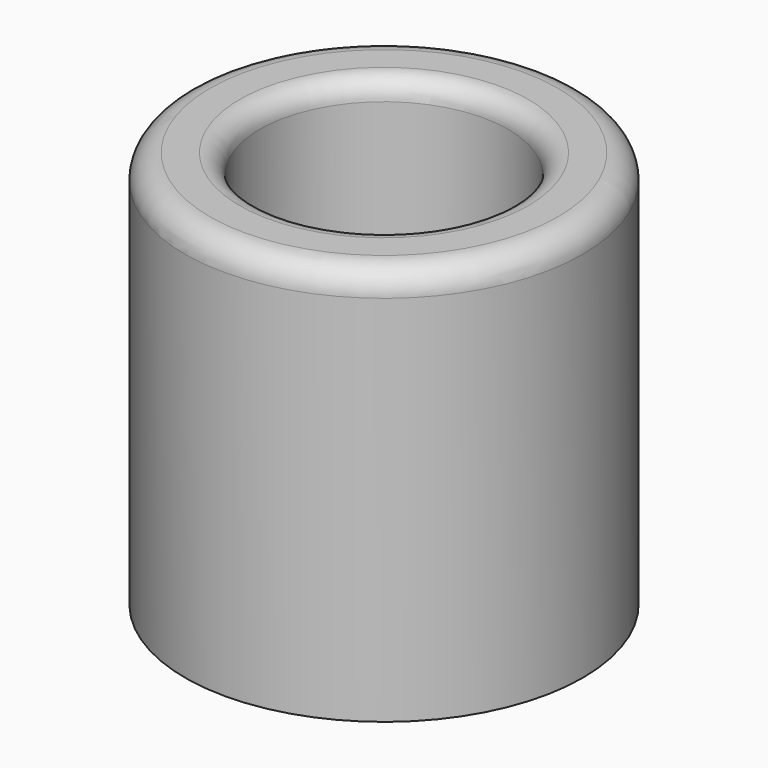
from build123d import *

# Parameters (mm, degrees)
F0_R     = 50.8
F0_R_2   = 31.75
F1_DEPTH = 101.6
F2_R     = 6.35
F3_R     = 5.08
F4_T     = -6.35


with BuildPart() as f1:
    # F0 (on Top) → F1 (new body)
    with BuildSketch(Plane.XY):
        Circle(F0_R)
        Circle(F0_R_2, mode=Mode.SUBTRACT)
    extrude(amount=F1_DEPTH)

    # F2
    f2_edges = [f1.edges().sort_by_distance(p)[0] for p in [
        (-50.8, 0, 101.6),
    ]]
    fillet(f2_edges, radius=F2_R)

    # F3
    f3_edges = [f1.edges().sort_by_distance(p)[0] for p in [
        (-31.75, 0, 101.6),
    ]]
    fillet(f3_edges, radius=F3_R)

    # F4
    f4_openings = [f1.faces().sort_by_distance(p)[0] for p in [
        (-49.363159, 0, 0),
    ]]
    offset(amount=F4_T, openings=f4_openings, kind=Kind.INTERSECTION)


solid = f1.part
